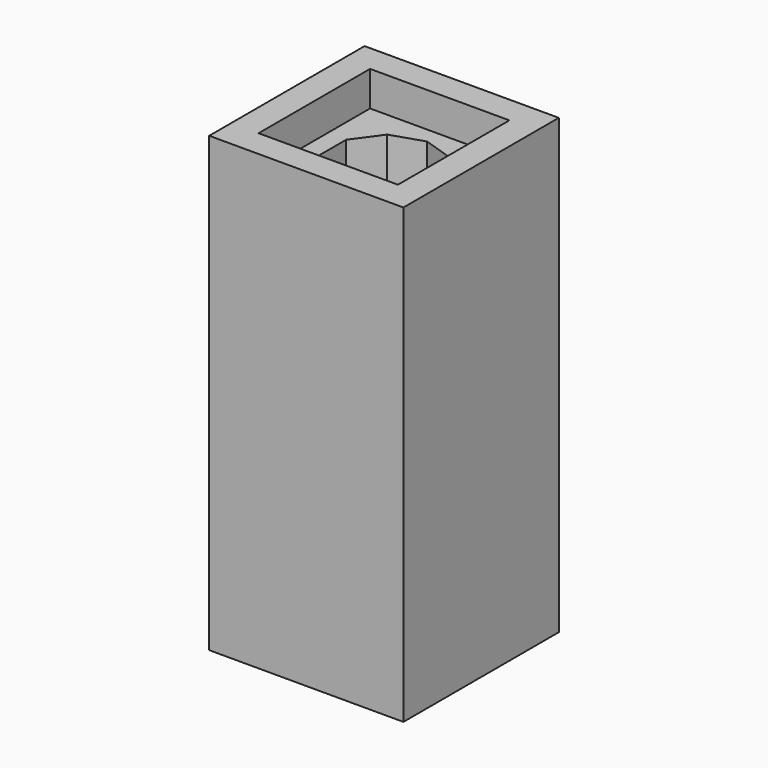
from build123d import *

# Parameters (mm, degrees)
F0_W     = 70.8
F0_H     = 70.8
F0_W_2   = 50.8
F0_H_2   = 50.8
F1_DEPTH = 165.1
F2_DEPTH = 12.7
F4_DEPTH = 200.1


with BuildPart() as f1:
    # F0 (on Top) → F1 (new body)
    with BuildSketch(Plane.XY):
        Rectangle(F0_W, F0_H)
        Rectangle(F0_W_2, F0_H_2, mode=Mode.SUBTRACT)
        Rectangle(F0_W_2, F0_H_2)
    extrude(amount=-F1_DEPTH)

    # F0 (on Top) → F2 (cut)
    with BuildSketch(Plane.XY):
        Rectangle(F0_W_2, F0_H_2)
    extrude(amount=-F2_DEPTH, mode=Mode.SUBTRACT)

    # F3 (on face) → F4 (cut)
    with BuildSketch(Plane.XY):
        Polygon((18.667707, -6.065506), (18.667707, 6.065506), (11.537278, 15.8797), (0, 19.628389), (-11.537278, 15.8797), (-18.667707, 6.065506), (-18.667707, -6.065506), (-11.537278, -15.8797), (0, -19.628389), (11.537278, -15.8797), align=None)
    extrude(amount=-F4_DEPTH, mode=Mode.SUBTRACT)


solid = f1.part
